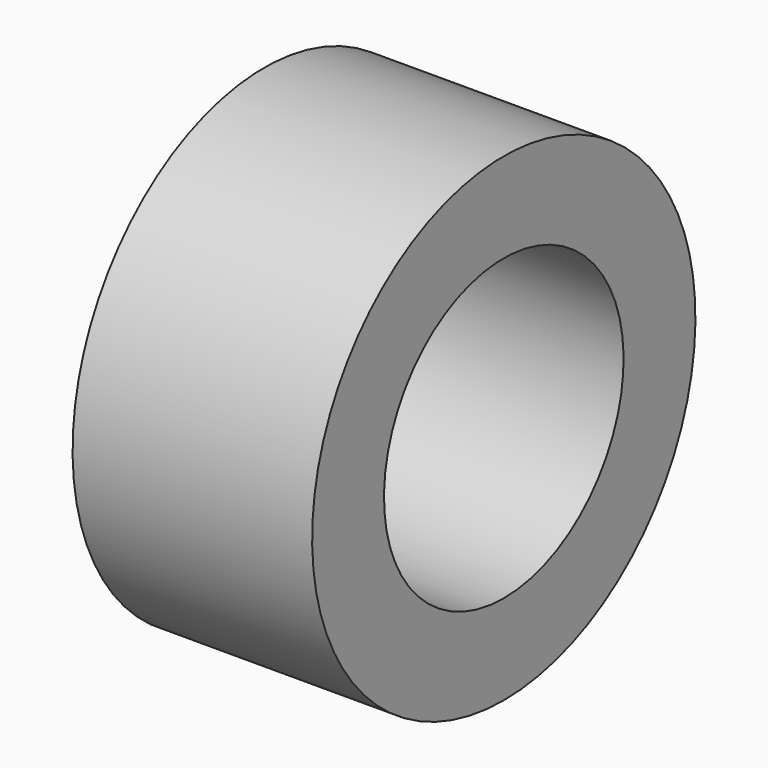
from build123d import *

# Parameters (mm, degrees)
CYLINDER012_R     = 2.5
CYLINDER012_DEPTH = 10
CYLINDER013_R     = 4
CYLINDER013_DEPTH = 4


with BuildPart() as cylinder:
    # Cylinder012 → Cylinder012 (new body)
    with BuildSketch(Plane(origin=(23.5, -39, -22), x_dir=(0, 0, -1), z_dir=(1, 0, 0))):
        Circle(CYLINDER012_R)
    extrude(amount=CYLINDER012_DEPTH)


with BuildPart() as obj1:
    # Cylinder013 → Cylinder013 (new body)
    with BuildSketch(Plane(origin=(26.5, -39, -22), x_dir=(0, 0, -1), z_dir=(1, 0, 0))):
        Circle(CYLINDER013_R)
    extrude(amount=CYLINDER013_DEPTH)

    # Cut007: cut Cylinder
    add(cylinder.part, mode=Mode.SUBTRACT)


with BuildPart() as obj1_1:
    # Cut007 placement: moved
    add(obj1.part.moved(Location((0, 0, 2.5))))


solid = obj1_1.part
